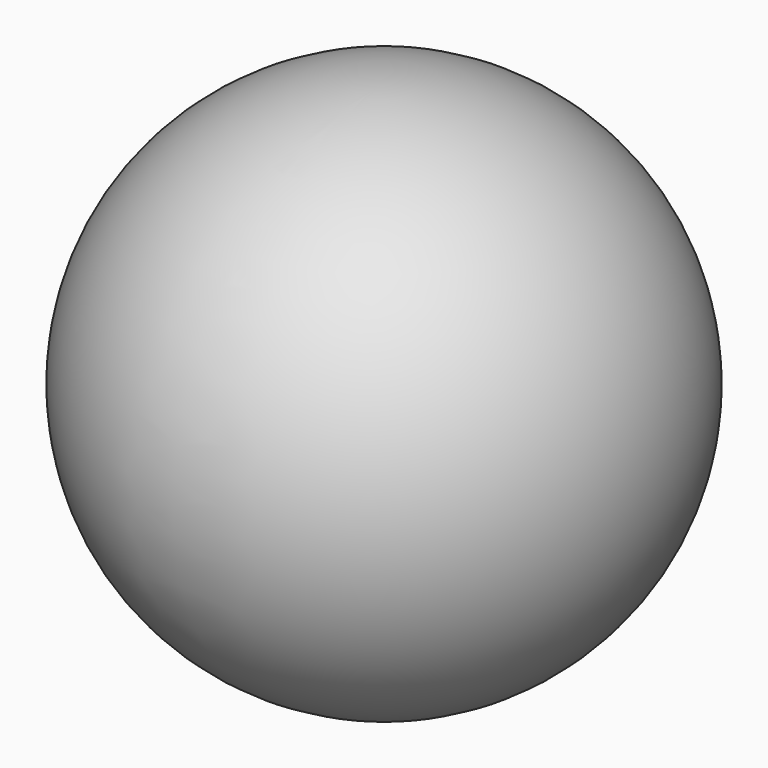
from build123d import *


with BuildPart() as f1:
    # F0 (on Right) → F1 (revolve)
    with BuildSketch(Plane.YZ):
        with BuildLine():
            ThreePointArc((12.7, 23.8125), (1.5875, 12.7), (12.7, 1.5875))
            Line((12.7, 1.5875), (12.7, 23.8125))
        make_face()
    revolve(axis=Axis((0, 12.7, 12.7), (0, 0, -1)))


solid = f1.part
